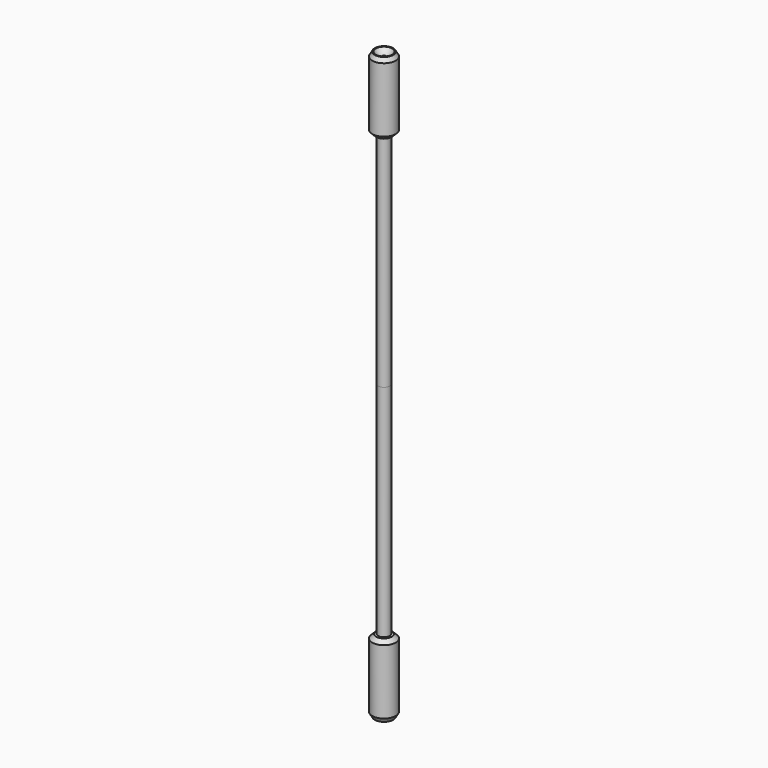
from build123d import *

# Parameters (mm, degrees)
F0_W = 2.925
F0_H = 112.7


with BuildPart() as f1:
    # F0 (on Front) → F1 (revolve)
    with BuildSketch(Plane.XZ):
        with Locations((-1.4625, 56.35)):
            Rectangle(F0_W, F0_H)
        with BuildLine():
            Line((-2.925, 112.7), (0, 112.7))
            Line((0, 112.7), (0, 147.018343))
            Line((0, 147.018343), (-1.25, 147.018343))
            Line((-1.25, 147.018343), (-1.25, 147.518343))
            ThreePointArc((-1.25, 147.518343), (-2.993156, 148.418958), (-4.22019, 149.95))
            Line((-4.22019, 149.95), (-4.75, 149.95))
            Line((-4.75, 149.95), (-6, 147.784936))
            Line((-6, 147.784936), (-6, 114.7))
            Line((-6, 114.7), (-4, 112.7))
            Line((-4, 112.7), (-2.925, 112.7))
        make_face()
    revolve(axis=Axis((0, 0, 96.312008), (0, 0, -1)))

    # F2: F1 across plane


with BuildPart() as f1_1:
    add(f1.part)
    add(f1.part.mirror(Plane.XY))


solid = f1_1.part
